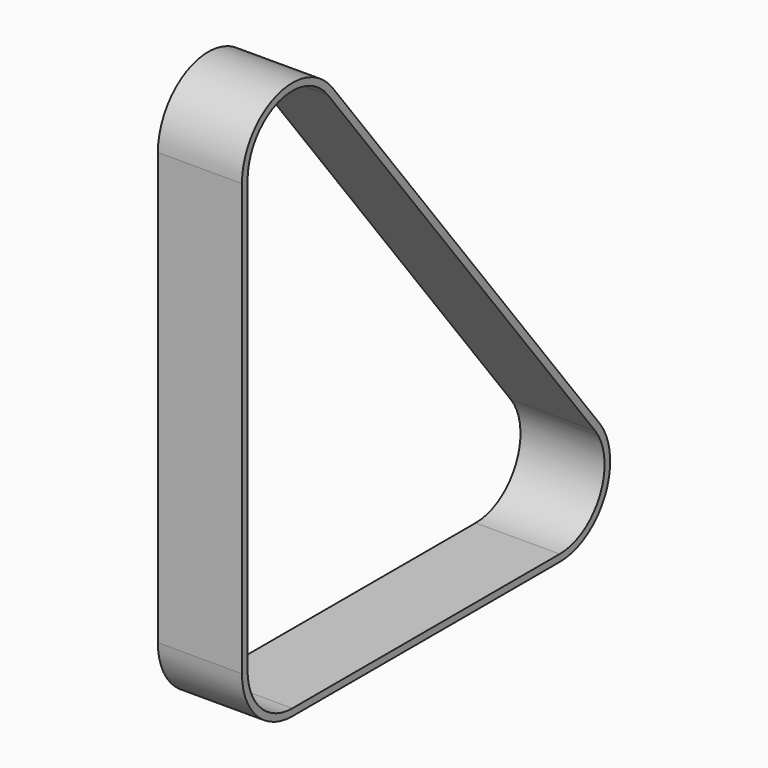
from build123d import *

# Parameters (mm, degrees)
F1_DEPTH = 38.1


with BuildPart() as f1:
    # F0 (on Right) → F1 (new body, symmetric)
    with BuildSketch(Plane.YZ):
        with BuildLine():
            ThreePointArc((-6.350009, 50.8), (10.388841, 10.388841), (50.8, -6.350009))
            Line((50.8, -6.350009), (353.615227, -6.350009))
            ThreePointArc((353.615227, -6.350009), (404.926872, 25.635765), (398.802211, 85.789428))
            Line((398.802211, 85.789428), (95.986983, 476.859172))
            ThreePointArc((95.986983, 476.859172), (32.310989, 495.946356), (-6.350009, 441.869744))
            Line((-6.350009, 441.869744), (-6.350009, 50.8))
        make_face()
        with BuildLine():
            Line((0, 50.8), (0, 441.869744))
            ThreePointArc((0, 441.869744), (34.365327, 489.937836), (90.966201, 472.971453))
            Line((90.966201, 472.971453), (393.781428, 81.901709))
            ThreePointArc((393.781428, 81.901709), (399.22557, 28.431795), (353.615227, 0))
            Line((353.615227, 0), (50.8, 0))
            ThreePointArc((50.8, 0), (14.878976, 14.878976), (0, 50.8))
        make_face(mode=Mode.SUBTRACT)
    extrude(amount=F1_DEPTH, both=True)


solid = f1.part
